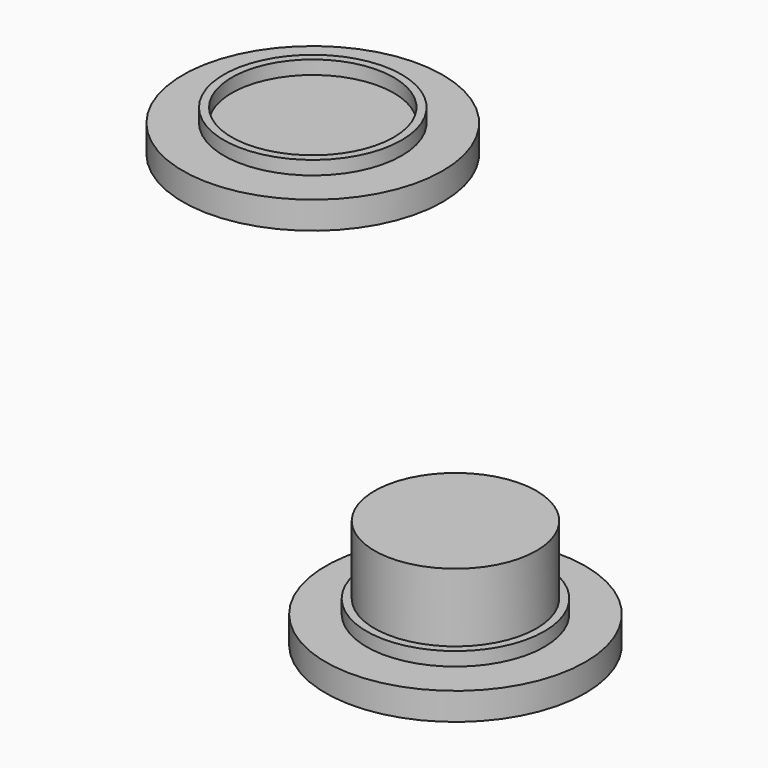
from build123d import *

# Parameters (mm, degrees)
F0_R      = 9.5
F1_DEPTH  = 2
F2_R      = 6.5
F3_DEPTH  = 1
F4_R      = 5.925
F5_DEPTH  = 5
F6_R      = 9.5
F7_DEPTH  = 2
F8_R      = 6.5
F9_DEPTH  = 1
F10_R     = 5.925
F11_DEPTH = 1


with BuildPart() as f1:
    # F0 (on Top) → F1 (new body)
    with BuildSketch(Plane.XY):
        Circle(F0_R)
    extrude(amount=F1_DEPTH)

    # F2 (on face) → F3 (join)
    with BuildSketch(Plane.XY.offset(2)):
        Circle(F2_R)
    extrude(amount=F3_DEPTH)

    # F4 (on face) → F5 (join)
    with BuildSketch(Plane.XY.offset(3)):
        Circle(F4_R)
    extrude(amount=F5_DEPTH)


with BuildPart() as f7:
    # F6 (on Top) → F7 (new body)
    with BuildSketch(Plane.XY):
        with Locations((-44.296876, 42.328127)):
            Circle(F6_R)
    extrude(amount=F7_DEPTH)

    # F8 (on face) → F9 (join)
    with BuildSketch(Plane.XY.offset(2)):
        with Locations((-44.296876, 42.328127)):
            Circle(F8_R)
    extrude(amount=F9_DEPTH)

    # F10 (on face) → F11 (cut)
    with BuildSketch(Plane.XY.offset(3)):
        with Locations((-44.296876, 42.328127)):
            Circle(F10_R)
    extrude(amount=-F11_DEPTH, mode=Mode.SUBTRACT)


solid = Compound([f1.part, f7.part])
